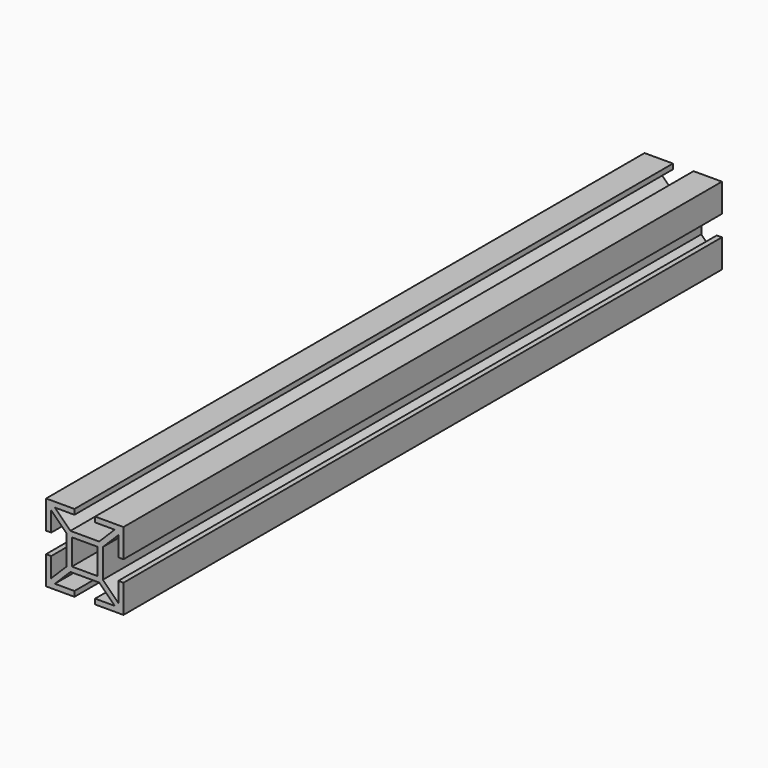
from build123d import *

# Parameters (mm, degrees)
F0_W     = 10
F0_H     = 10
F1_DEPTH = 145


with BuildPart() as f1:
    # F0 (on Front) → F1 (new body, symmetric)
    with BuildSketch(Plane.XZ):
        Polygon((7, -5.585787), (7, -7), (5.585787, -7), (11.585786, -13), (4, -13), (4, -15), (15, -15), (15, -4), (13, -4), (13, -11.585786), align=None)
        Polygon((5.585787, -7), (7, -7), (7, -5.585787), (7, 5.585787), (7, 7), (5.585787, 7), (-5.585787, 7), (-7, 7), (-7, 5.585787), (-7, -5.585787), (-7, -7), (-5.585787, -7), align=None)
        Rectangle(F0_W, F0_H, mode=Mode.SUBTRACT)
        Polygon((-11.585786, -13), (-5.585787, -7), (-7, -7), (-7, -5.585787), (-13, -11.585786), (-13, -4), (-15, -4), (-15, -15), (-4, -15), (-4, -13), align=None)
        Polygon((7, 7), (7, 5.585787), (13, 11.585786), (13, 4), (15, 4), (15, 15), (4, 15), (4, 13), (11.585786, 13), (5.585787, 7), align=None)
        Polygon((-13, 11.585786), (-7, 5.585787), (-7, 7), (-5.585787, 7), (-11.585786, 13), (-4, 13), (-4, 15), (-15, 15), (-15, 4), (-13, 4), align=None)
    extrude(amount=F1_DEPTH, both=True)


solid = f1.part
